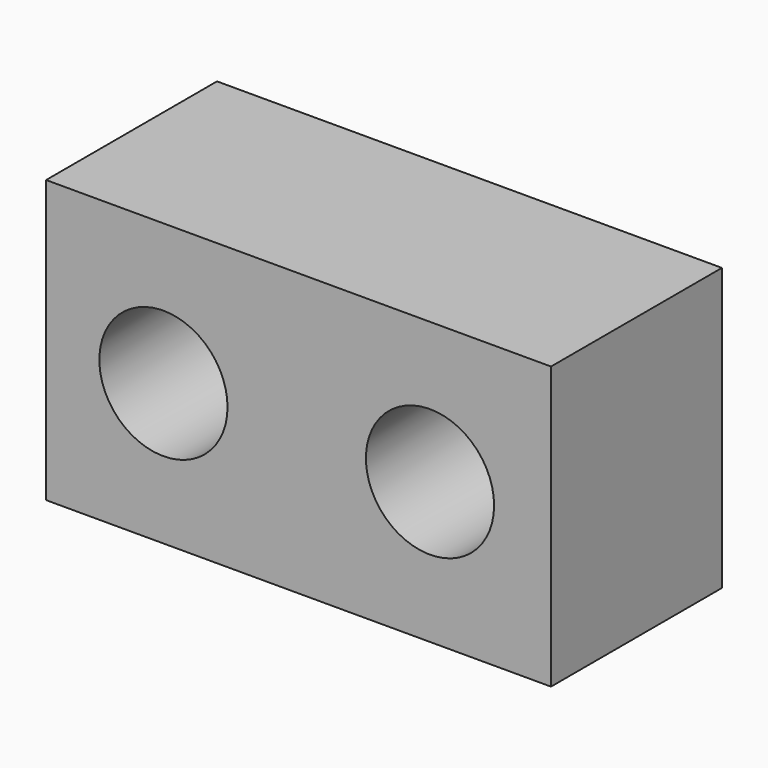
from build123d import *

# Parameters (mm, degrees)
F0_W     = 150.06873
F0_H     = 83.760024
F1_DEPTH = 63.5
F3_D     = 38.1
F5_D     = 38.1


with BuildPart() as f1:
    # F0 (on Front) → F1 (new body)
    with BuildSketch(Plane.XZ):
        Rectangle(F0_W, F0_H)
    extrude(amount=F1_DEPTH)

    # F3 (through all)
    with Locations(Plane(origin=(0, 0, 0), x_dir=(-1, 0, 0), z_dir=(0, 1, 0))):
        with Locations((-39.070934, 0)):
            Hole(F3_D / 2)

    # F5 (through all)
    with Locations(Plane(origin=(0, 0, 0), x_dir=(-1, 0, 0), z_dir=(0, 1, 0))):
        with Locations((40.15404, 0)):
            Hole(F5_D / 2)


solid = f1.part
